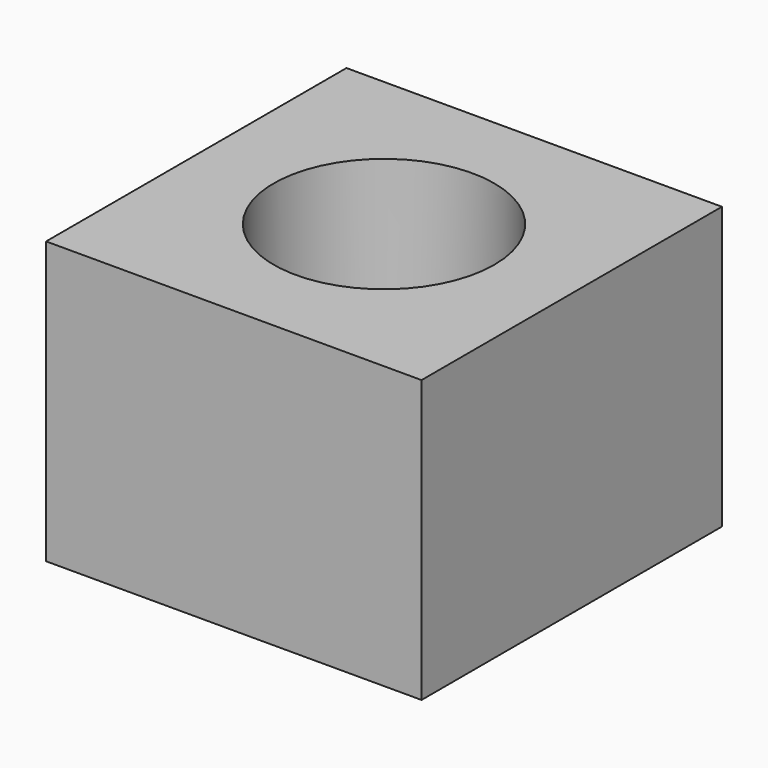
from build123d import *

# Parameters (mm, degrees)
F0_W          = 80
F0_H          = 80
F0_R          = 23.5
F1_DEPTH      = 40
F1_DEPTH_BACK = 20


with BuildPart() as f1:
    # F0 (on Top) → F1 (new body, two sides)
    with BuildSketch(Plane.XY) as f1_sk:
        Rectangle(F0_W, F0_H)
        Circle(F0_R, mode=Mode.SUBTRACT)
    extrude(amount=F1_DEPTH)
    extrude(f1_sk.sketch, amount=-F1_DEPTH_BACK)


solid = f1.part
